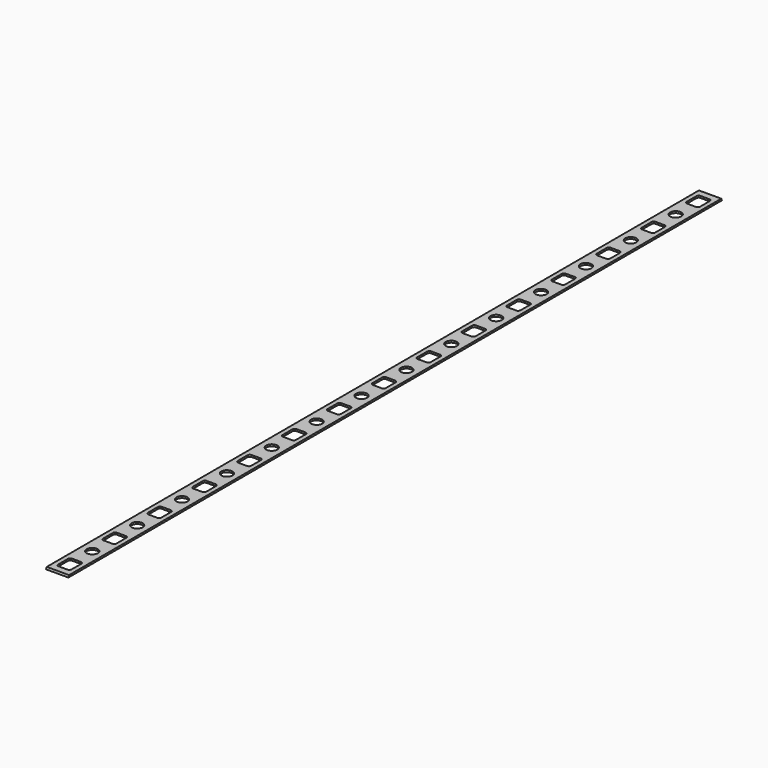
from build123d import *

# Parameters (mm, degrees)
F0_W          = 38.1
F0_H          = 3.175
F1_DEPTH      = 696.9633
F1_DEPTH_BACK = 696.9633
F3_DEPTH      = 38.1
F4_R          = 9.525
F5_DEPTH      = 3.175


with BuildPart() as f1:
    # F0 (on Front) → F1 (new body, two sides)
    with BuildSketch(Plane.XZ) as f1_sk:
        Rectangle(F0_W, F0_H)
    extrude(amount=F1_DEPTH)
    extrude(f1_sk.sketch, amount=-F1_DEPTH_BACK)

    # F2 (on face) → F3 (cut, through all)
    with BuildSketch(Plane.YZ.offset(19.05)):
        Polygon((-696.9633, 1.5875), (-696.9633, -1.5875), (-695.582837, 1.5875), align=None)
        Polygon((695.582837, 1.5875), (696.9633, -1.5875), (696.9633, 1.5875), align=None)
    extrude(amount=-F3_DEPTH, mode=Mode.SUBTRACT)

    # F4 (on face) → F5 (cut, through all)
    with BuildSketch(Plane.XY.offset(1.5875)):
        with BuildLine():
            Line((-7.62, -684.470337), (7.62, -684.470337))
            ThreePointArc((7.62, -684.470337), (10.314077, -683.354413), (11.43, -680.660337))
            Line((11.43, -680.660337), (11.43, -659.705337))
            ThreePointArc((11.43, -659.705337), (10.314077, -657.01126), (7.62, -655.895337))
            Line((7.62, -655.895337), (-7.62, -655.895337))
            ThreePointArc((-7.62, -655.895337), (-10.314077, -657.01126), (-11.43, -659.705337))
            Line((-11.43, -659.705337), (-11.43, -680.660337))
            ThreePointArc((-11.43, -680.660337), (-10.314077, -683.354413), (-7.62, -684.470337))
        make_face()
        with BuildLine():
            Line((-7.62, -588.728845), (7.62, -588.728845))
            ThreePointArc((7.62, -588.728845), (10.314077, -587.612922), (11.43, -584.918845))
            Line((11.43, -584.918845), (11.43, -563.963845))
            ThreePointArc((11.43, -563.963845), (10.314077, -561.269768), (7.62, -560.153845))
            Line((7.62, -560.153845), (-7.62, -560.153845))
            ThreePointArc((-7.62, -560.153845), (-10.314077, -561.269768), (-11.43, -563.963845))
            Line((-11.43, -563.963845), (-11.43, -584.918845))
            ThreePointArc((-11.43, -584.918845), (-10.314077, -587.612922), (-7.62, -588.728845))
        make_face()
        with BuildLine():
            Line((-7.62, -492.987354), (7.62, -492.987354))
            ThreePointArc((7.62, -492.987354), (10.314077, -491.871431), (11.43, -489.177354))
            Line((11.43, -489.177354), (11.43, -468.222354))
            ThreePointArc((11.43, -468.222354), (10.314077, -465.528277), (7.62, -464.412354))
            Line((7.62, -464.412354), (-7.62, -464.412354))
            ThreePointArc((-7.62, -464.412354), (-10.314077, -465.528277), (-11.43, -468.222354))
            Line((-11.43, -468.222354), (-11.43, -489.177354))
            ThreePointArc((-11.43, -489.177354), (-10.314077, -491.871431), (-7.62, -492.987354))
        make_face()
        with BuildLine():
            Line((-7.62, -397.245863), (7.62, -397.245863))
            ThreePointArc((7.62, -397.245863), (10.314077, -396.129939), (11.43, -393.435863))
            Line((11.43, -393.435863), (11.43, -372.480863))
            ThreePointArc((11.43, -372.480863), (10.314077, -369.786786), (7.62, -368.670863))
            Line((7.62, -368.670863), (-7.62, -368.670863))
            ThreePointArc((-7.62, -368.670863), (-10.314077, -369.786786), (-11.43, -372.480863))
            Line((-11.43, -372.480863), (-11.43, -393.435863))
            ThreePointArc((-11.43, -393.435863), (-10.314077, -396.129939), (-7.62, -397.245863))
        make_face()
        with BuildLine():
            Line((-7.62, -301.504371), (7.62, -301.504371))
            ThreePointArc((7.62, -301.504371), (10.314077, -300.388448), (11.43, -297.694371))
            Line((11.43, -297.694371), (11.43, -276.739371))
            ThreePointArc((11.43, -276.739371), (10.314077, -274.045294), (7.62, -272.929371))
            Line((7.62, -272.929371), (-7.62, -272.929371))
            ThreePointArc((-7.62, -272.929371), (-10.314077, -274.045294), (-11.43, -276.739371))
            Line((-11.43, -276.739371), (-11.43, -297.694371))
            ThreePointArc((-11.43, -297.694371), (-10.314077, -300.388448), (-7.62, -301.504371))
        make_face()
        with BuildLine():
            Line((-7.62, -205.76288), (7.62, -205.76288))
            ThreePointArc((7.62, -205.76288), (10.314077, -204.646957), (11.43, -201.95288))
            Line((11.43, -201.95288), (11.43, -180.99788))
            ThreePointArc((11.43, -180.99788), (10.314077, -178.303803), (7.62, -177.18788))
            Line((7.62, -177.18788), (-7.62, -177.18788))
            ThreePointArc((-7.62, -177.18788), (-10.314077, -178.303803), (-11.43, -180.99788))
            Line((-11.43, -180.99788), (-11.43, -201.95288))
            ThreePointArc((-11.43, -201.95288), (-10.314077, -204.646957), (-7.62, -205.76288))
        make_face()
        with BuildLine():
            Line((-7.62, -110.021389), (7.62, -110.021389))
            ThreePointArc((7.62, -110.021389), (10.314077, -108.905466), (11.43, -106.211389))
            Line((11.43, -106.211389), (11.43, -85.256389))
            ThreePointArc((11.43, -85.256389), (10.314077, -82.562312), (7.62, -81.446389))
            Line((7.62, -81.446389), (-7.62, -81.446389))
            ThreePointArc((-7.62, -81.446389), (-10.314077, -82.562312), (-11.43, -85.256389))
            Line((-11.43, -85.256389), (-11.43, -106.211389))
            ThreePointArc((-11.43, -106.211389), (-10.314077, -108.905466), (-7.62, -110.021389))
        make_face()
        with BuildLine():
            Line((-7.62, -14.279897), (7.62, -14.279897))
            ThreePointArc((7.62, -14.279897), (10.314077, -13.163974), (11.43, -10.469897))
            Line((11.43, -10.469897), (11.43, 10.485103))
            ThreePointArc((11.43, 10.485103), (10.314077, 13.179179), (7.62, 14.295103))
            Line((7.62, 14.295103), (-7.62, 14.295103))
            ThreePointArc((-7.62, 14.295103), (-10.314077, 13.179179), (-11.43, 10.485103))
            Line((-11.43, 10.485103), (-11.43, -10.469897))
            ThreePointArc((-11.43, -10.469897), (-10.314077, -13.163974), (-7.62, -14.279897))
        make_face()
        with BuildLine():
            Line((-7.62, 81.461594), (7.62, 81.461594))
            ThreePointArc((7.62, 81.461594), (10.314077, 82.577517), (11.43, 85.271594))
            Line((11.43, 85.271594), (11.43, 106.226594))
            ThreePointArc((11.43, 106.226594), (10.314077, 108.920671), (7.62, 110.036594))
            Line((7.62, 110.036594), (-7.62, 110.036594))
            ThreePointArc((-7.62, 110.036594), (-10.314077, 108.920671), (-11.43, 106.226594))
            Line((-11.43, 106.226594), (-11.43, 85.271594))
            ThreePointArc((-11.43, 85.271594), (-10.314077, 82.577517), (-7.62, 81.461594))
        make_face()
        with BuildLine():
            Line((-7.62, 177.203085), (7.62, 177.203085))
            ThreePointArc((7.62, 177.203085), (10.314077, 178.319008), (11.43, 181.013085))
            Line((11.43, 181.013085), (11.43, 201.968085))
            ThreePointArc((11.43, 201.968085), (10.314077, 204.662162), (7.62, 205.778085))
            Line((7.62, 205.778085), (-7.62, 205.778085))
            ThreePointArc((-7.62, 205.778085), (-10.314077, 204.662162), (-11.43, 201.968085))
            Line((-11.43, 201.968085), (-11.43, 181.013085))
            ThreePointArc((-11.43, 181.013085), (-10.314077, 178.319008), (-7.62, 177.203085))
        make_face()
        with BuildLine():
            Line((-7.62, 272.944577), (7.62, 272.944577))
            ThreePointArc((7.62, 272.944577), (10.314077, 274.0605), (11.43, 276.754577))
            Line((11.43, 276.754577), (11.43, 297.709577))
            ThreePointArc((11.43, 297.709577), (10.314077, 300.403653), (7.62, 301.519577))
            Line((7.62, 301.519577), (-7.62, 301.519577))
            ThreePointArc((-7.62, 301.519577), (-10.314077, 300.403653), (-11.43, 297.709577))
            Line((-11.43, 297.709577), (-11.43, 276.754577))
            ThreePointArc((-11.43, 276.754577), (-10.314077, 274.0605), (-7.62, 272.944577))
        make_face()
        with BuildLine():
            Line((-7.62, 368.686068), (7.62, 368.686068))
            ThreePointArc((7.62, 368.686068), (10.314077, 369.801991), (11.43, 372.496068))
            Line((11.43, 372.496068), (11.43, 393.451068))
            ThreePointArc((11.43, 393.451068), (10.314077, 396.145145), (7.62, 397.261068))
            Line((7.62, 397.261068), (-7.62, 397.261068))
            ThreePointArc((-7.62, 397.261068), (-10.314077, 396.145145), (-11.43, 393.451068))
            Line((-11.43, 393.451068), (-11.43, 372.496068))
            ThreePointArc((-11.43, 372.496068), (-10.314077, 369.801991), (-7.62, 368.686068))
        make_face()
        with BuildLine():
            Line((-7.62, 464.427559), (7.62, 464.427559))
            ThreePointArc((7.62, 464.427559), (10.314077, 465.543482), (11.43, 468.237559))
            Line((11.43, 468.237559), (11.43, 489.192559))
            ThreePointArc((11.43, 489.192559), (10.314077, 491.886636), (7.62, 493.002559))
            Line((7.62, 493.002559), (-7.62, 493.002559))
            ThreePointArc((-7.62, 493.002559), (-10.314077, 491.886636), (-11.43, 489.192559))
            Line((-11.43, 489.192559), (-11.43, 468.237559))
            ThreePointArc((-11.43, 468.237559), (-10.314077, 465.543482), (-7.62, 464.427559))
        make_face()
        with BuildLine():
            Line((-7.62, 560.169051), (7.62, 560.169051))
            ThreePointArc((7.62, 560.169051), (10.314077, 561.284974), (11.43, 563.979051))
            Line((11.43, 563.979051), (11.43, 584.934051))
            ThreePointArc((11.43, 584.934051), (10.314077, 587.628127), (7.62, 588.744051))
            Line((7.62, 588.744051), (-7.62, 588.744051))
            ThreePointArc((-7.62, 588.744051), (-10.314077, 587.628127), (-11.43, 584.934051))
            Line((-11.43, 584.934051), (-11.43, 563.979051))
            ThreePointArc((-11.43, 563.979051), (-10.314077, 561.284974), (-7.62, 560.169051))
        make_face()
        with BuildLine():
            Line((-7.62, 655.910542), (7.62, 655.910542))
            ThreePointArc((7.62, 655.910542), (10.314077, 657.026465), (11.43, 659.720542))
            Line((11.43, 659.720542), (11.43, 680.675542))
            ThreePointArc((11.43, 680.675542), (10.314077, 683.369619), (7.62, 684.485542))
            Line((7.62, 684.485542), (-7.62, 684.485542))
            ThreePointArc((-7.62, 684.485542), (-10.314077, 683.369619), (-11.43, 680.675542))
            Line((-11.43, 680.675542), (-11.43, 659.720542))
            ThreePointArc((-11.43, 659.720542), (-10.314077, 657.026465), (-7.62, 655.910542))
        make_face()
        with Locations((0, -622.312091)):
            Circle(F4_R)
        with Locations((0, -526.57949)):
            Circle(F4_R)
        with Locations((0, -430.846888)):
            Circle(F4_R)
        with Locations((0, -335.114287)):
            Circle(F4_R)
        with Locations((0, -239.381686)):
            Circle(F4_R)
        with Locations((0, -143.649084)):
            Circle(F4_R)
        with Locations((0, -47.916483)):
            Circle(F4_R)
        with Locations((0, 47.816119)):
            Circle(F4_R)
        with Locations((0, 143.54872)):
            Circle(F4_R)
        with Locations((0, 239.281321)):
            Circle(F4_R)
        with Locations((0, 335.013923)):
            Circle(F4_R)
        with Locations((0, 430.746524)):
            Circle(F4_R)
        with Locations((0, 526.479125)):
            Circle(F4_R)
        with Locations((0, 622.211727)):
            Circle(F4_R)
    extrude(amount=-F5_DEPTH, mode=Mode.SUBTRACT)


solid = f1.part
